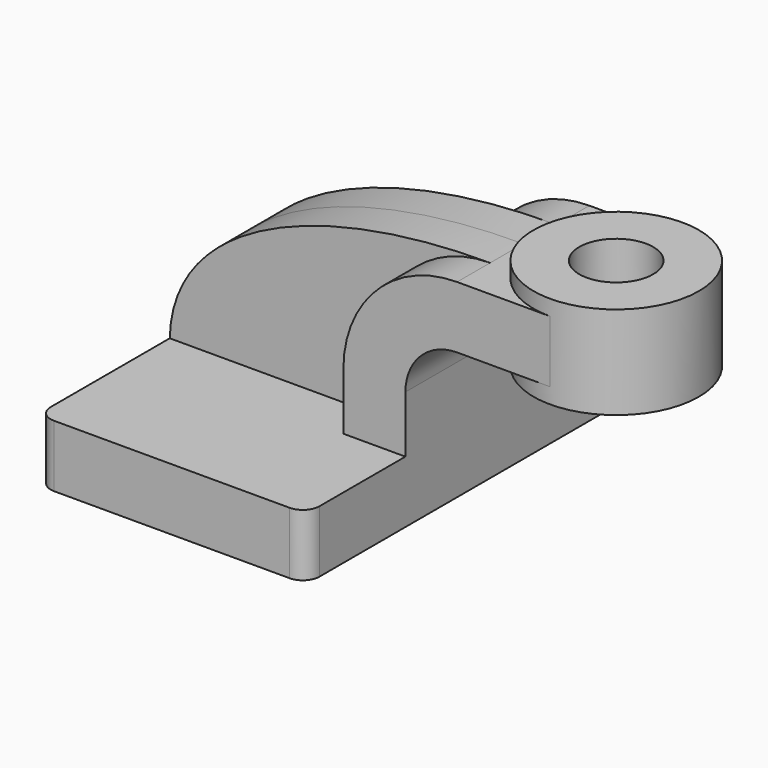
from build123d import *

# Parameters (mm, degrees)
F1_DEPTH = 63.5
F0_W     = 25.4
F0_H     = 19.05
F2_DEPTH = 25.4
F3_DEPTH = 12.7
F5_R     = 5.08
F6_R     = 11.3614366128
F7_DEPTH = 28.575


with BuildPart() as f1:
    # F0 (on Front) → F1 (new body, symmetric)
    with BuildSketch(Plane.XZ):
        Polygon((-41.275, -9.525), (41.275, -9.525), (41.275, 9.525), (22.225, 9.525), (-41.275, 9.525), align=None)
    extrude(amount=F1_DEPTH, both=True)

    # F0 (on Front) → F2 (join, symmetric)
    with BuildSketch(Plane.XZ):
        with BuildLine():
            Line((22.225, 9.525), (41.275, 9.525))
            Line((41.275, 9.525), (41.275, 27.0002))
            ThreePointArc((41.275, 27.0002), (45.9246798487, 38.2255201513), (57.15, 42.8752))
            Line((57.15, 42.8752), (60.325, 42.8752))
            Line((60.325, 42.8752), (60.325, 61.9252))
            Line((60.325, 61.9252), (57.15, 61.9252))
            ThreePointArc((57.15, 61.9252), (32.4542956671, 51.6959043329), (22.225, 27.0002))
            Line((22.225, 27.0002), (22.225, 9.525))
        make_face()
        with Locations((73.025, 52.4002)):
            Rectangle(F0_W, F0_H)
    extrude(amount=F2_DEPTH, both=True)

    # F0 (on Front) → F3 (join, symmetric)
    with BuildSketch(Plane.XZ):
        with BuildLine():
            add(Edge.make_bspline(
                [(-41.275, 9.525), (-40.521685034, 43.8802801073), (5.2034435794, 62.1158964932), (57.15, 61.9252)],
                knots=[0, 0, 0, 0, 111.5045361635, 111.5045361635, 111.5045361635, 111.5045361635], degree=3))
            Line((-41.275, 9.525), (22.225, 9.525))
            Line((22.225, 9.525), (22.225, 27.0002))
            ThreePointArc((22.225, 27.0002), (32.4542956671, 51.6959043329), (57.15, 61.9252))
        make_face()
    extrude(amount=F3_DEPTH, both=True)

    # F0 (on Front) → F4 (revolve)
    with BuildSketch(Plane.XZ):
        Polygon((85.725, 66.675), (85.725, 61.9252), (85.725, 42.8752), (85.725, 38.1), (111.125, 38.1), (111.125, 66.675), align=None)
    revolve(axis=Axis((85.725, 0, 52.3875), (0, 0, 1)))

    # F5
    f5_edges = [f1.edges().sort_by_distance(p)[0] for p in [
        (41.275, -63.5, 0),
        (-41.275, -63.5, 0),
        (-41.275, 63.5, 0),
        (41.275, 63.5, 0),
    ]]
    fillet(f5_edges, radius=F5_R)

    # F6 (on face) → F7 (cut)
    with BuildSketch(Plane.XY.offset(66.675)):
        with Locations((85.725, 0)):
            Circle(F6_R)
    extrude(amount=-F7_DEPTH, mode=Mode.SUBTRACT)


solid = f1.part
